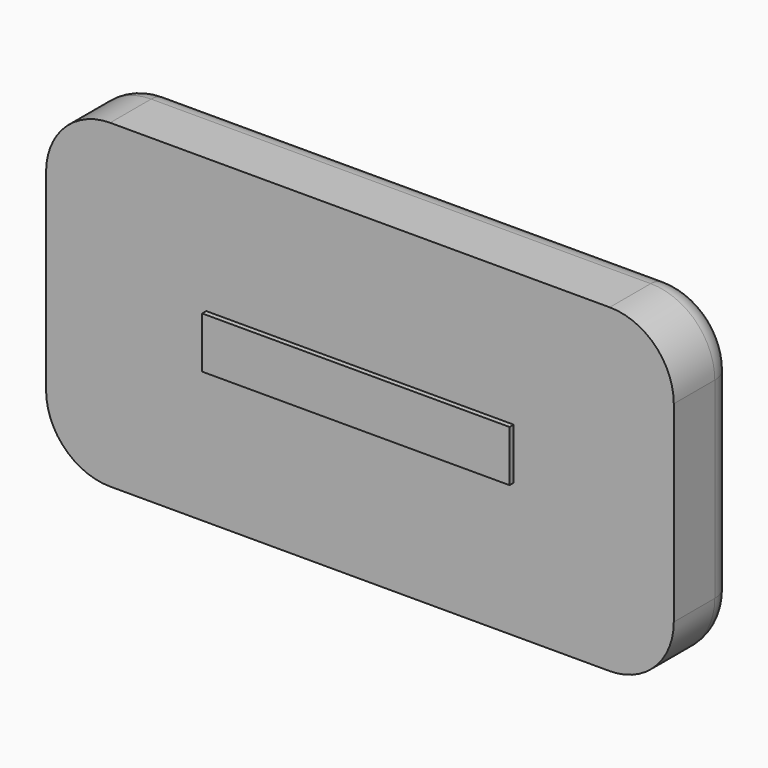
from build123d import *

# Parameters (mm, degrees)
PAD003_DEPTH = 1.5
FILLET011_R  = 0.5
SKETCH023_W  = 6
SKETCH023_H  = 1
PAD004_DEPTH = 0.1


with BuildPart() as part:
    # Sketch020 → Pad003 (new body)
    with BuildSketch(Plane.XZ):
        with BuildLine():
            Line((-6.125, 1.875), (-6.125, -1.875))
            ThreePointArc((-4.875, -3.125), (-5.758883, -2.758883), (-6.125, -1.875))
            Line((-4.875, -3.125), (4.875, -3.125))
            ThreePointArc((6.125, -1.875), (5.758883, -2.758883), (4.875, -3.125))
            Line((6.125, -1.875), (6.125, 1.875))
            ThreePointArc((4.875, 3.125), (5.758883, 2.758883), (6.125, 1.875))
            Line((4.875, 3.125), (-4.875, 3.125))
            ThreePointArc((-6.125, 1.875), (-5.758883, 2.758883), (-4.875, 3.125))
        make_face()
    extrude(amount=PAD003_DEPTH)

    # Fillet011
    fillet011_edges = [part.edges().sort_by_distance(p)[0] for p in [
        (0, 0, -3.125),
    ]]
    fillet(fillet011_edges, radius=FILLET011_R)

    # Sketch023 (on Face4 of Fillet011) → Pad004 (join)
    with BuildSketch(Plane.XZ.offset(1.5)):
        Rectangle(SKETCH023_W, SKETCH023_H)
    extrude(amount=PAD004_DEPTH)


solid = part.part
